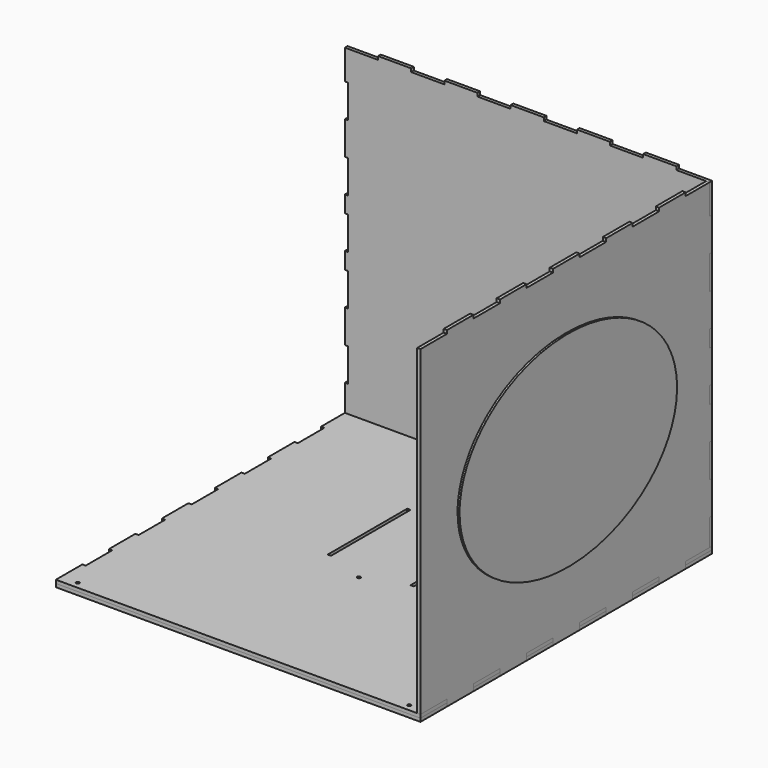
from build123d import *

# Parameters (mm, degrees)
F0_R     = 2.5
F0_W     = 5
F0_H     = 150
F1_DEPTH = 5
F3_DEPTH = 5
F5_DEPTH = 5
F6_DEPTH = 5
F7_DEPTH = 3
F8_DEPTH = 3


with BuildPart() as f1:
    # F0 (on Top) → F1 (new body)
    with BuildSketch(Plane.XY):
        Polygon((-275, -275), (275, -275), (275, -225), (270, -225), (270, -175), (275, -175), (275, -125), (270, -125), (270, -75), (275, -75), (275, -25), (270, -25), (270, 25), (275, 25), (275, 75), (270, 75), (270, 125), (275, 125), (275, 175), (270, 175), (270, 225), (275, 225), (275, 275), (225, 275), (225, 270), (175, 270), (175, 275), (125, 275), (125, 270), (75, 270), (75, 275), (25, 275), (25, 270), (-25, 270), (-25, 275), (-75, 275), (-75, 270), (-125, 270), (-125, 275), (-175, 275), (-175, 270), (-225, 270), (-225, 275), (-275, 275), (-275, 225), (-270, 225), (-270, 175), (-275, 175), (-275, 125), (-270, 125), (-270, 75), (-275, 75), (-275, 25), (-270, 25), (-270, -25), (-275, -25), (-275, -75), (-270, -75), (-270, -125), (-275, -125), (-275, -175), (-270, -175), (-270, -225), (-275, -225), align=None)
        with Locations((-250, -265)):
            Circle(F0_R, mode=Mode.SUBTRACT)
        with Locations((250, -265)):
            Circle(F0_R, mode=Mode.SUBTRACT)
        with Locations((0, -47.255307)):
            Circle(F0_R, mode=Mode.SUBTRACT)
        with Locations((-62.5, 50)):
            Rectangle(F0_W, F0_H, mode=Mode.SUBTRACT)
        with Locations((62.5, 50)):
            Rectangle(F0_W, F0_H, mode=Mode.SUBTRACT)
        with Locations((0, -47.255307)):
            Circle(F0_R)
        with Locations((-62.5, 50)):
            Rectangle(F0_W, F0_H)
        with Locations((62.5, 50)):
            Rectangle(F0_W, F0_H)
    extrude(amount=-F1_DEPTH)


with BuildPart() as f3:
    # F2 (on face) → F3 (new body)
    with BuildSketch(Plane.YZ.offset(275)):
        Polygon((-275, 245), (-275, 0), (-225, 0), (-225, -5), (-175, -5), (-175, 0), (-125, 0), (-125, -5), (-75, -5), (-75, 0), (-25, 0), (-25, -5), (25, -5), (25, 0), (75, 0), (75, -5), (125, -5), (125, 0), (175, 0), (175, -5), (225, -5), (225, 0), (270, 0), (270, 45), (275, 45), (275, 95), (270, 95), (270, 145), (275, 145), (275, 195), (270, 195), (270, 220), (275, 220), (275, 245), (275, 270), (270, 270), (270, 295), (275, 295), (275, 345), (270, 345), (270, 395), (275, 395), (275, 445), (270, 445), (270, 490), (225, 490), (225, 495), (175, 495), (175, 490), (125, 490), (125, 495), (75, 495), (75, 490), (25, 490), (25, 495), (-25, 495), (-25, 490), (-75, 490), (-75, 495), (-125, 495), (-125, 490), (-175, 490), (-175, 495), (-225, 495), (-225, 490), (-275, 490), align=None)
        with BuildLine():
            add(Edge.make_bspline(
                [(-205, 245), (-205, -23.467875), (102.5, 110.766062), (410, 245), (102.5, 379.233938), (-205, 513.467875), (-205, 245)],
                knots=[0, 0, 0, 2.094395, 2.094395, 4.18879, 4.18879, 6.283185, 6.283185, 6.283185], degree=2, weights=[1, 0.5, 1, 0.5, 1, 0.5, 1]))
        make_face(mode=Mode.SUBTRACT)
        with BuildLine():
            add(Edge.make_bspline(
                [(-205, 245), (-205, -23.467875), (102.5, 110.766062), (410, 245), (102.5, 379.233938), (-205, 513.467875), (-205, 245)],
                knots=[0, 0, 0, 2.094395, 2.094395, 4.18879, 4.18879, 6.283185, 6.283185, 6.283185], degree=2, weights=[1, 0.5, 1, 0.5, 1, 0.5, 1]))
        make_face()
        with BuildLine():
            add(Edge.make_bspline(
                [(200, 245), (200, 504.807621), (-100, 374.903811), (-400, 245), (-100, 115.096189), (200, -14.807621), (200, 245)],
                knots=[0, 0, 0, 2.094395, 2.094395, 4.18879, 4.18879, 6.283185, 6.283185, 6.283185], degree=2, weights=[1, 0.5, 1, 0.5, 1, 0.5, 1]))
        make_face(mode=Mode.SUBTRACT)
    extrude(amount=-F3_DEPTH)

    # F2 (on face) → F7 (cut)
    with BuildSketch(Plane.YZ.offset(275)):
        with BuildLine():
            add(Edge.make_bspline(
                [(-205, 245), (-205, -23.467875), (102.5, 110.766062), (410, 245), (102.5, 379.233938), (-205, 513.467875), (-205, 245)],
                knots=[0, 0, 0, 2.094395, 2.094395, 4.18879, 4.18879, 6.283185, 6.283185, 6.283185], degree=2, weights=[1, 0.5, 1, 0.5, 1, 0.5, 1]))
        make_face()
        with BuildLine():
            add(Edge.make_bspline(
                [(200, 245), (200, 504.807621), (-100, 374.903811), (-400, 245), (-100, 115.096189), (200, -14.807621), (200, 245)],
                knots=[0, 0, 0, 2.094395, 2.094395, 4.18879, 4.18879, 6.283185, 6.283185, 6.283185], degree=2, weights=[1, 0.5, 1, 0.5, 1, 0.5, 1]))
        make_face(mode=Mode.SUBTRACT)
    extrude(amount=-F7_DEPTH, mode=Mode.SUBTRACT)


with BuildPart() as f5:
    # F4 (on face) → F5 (new body)
    with BuildSketch(Plane(origin=(0, 275, 0), x_dir=(-1, 0, 0), z_dir=(0, 1, 0))):
        Polygon((-225, 0), (-225, -5), (-175, -5), (-175, 0), (-125, 0), (-125, -5), (-75, -5), (-75, 0), (-25, 0), (-25, -5), (25, -5), (25, 0), (75, 0), (75, -5), (125, -5), (125, 0), (175, 0), (175, -5), (225, -5), (225, 0), (275, 0), (275, 45), (270, 45), (270, 95), (275, 95), (275, 145), (270, 145), (270, 195), (275, 195), (275, 220), (270, 220), (270, 245), (270, 270), (275, 270), (275, 295), (270, 295), (270, 345), (275, 345), (275, 395), (270, 395), (270, 445), (275, 445), (275, 490), (225, 490), (225, 495), (175, 495), (175, 490), (125, 490), (125, 495), (75, 495), (75, 490), (25, 490), (25, 495), (-25, 495), (-25, 490), (-75, 490), (-75, 495), (-125, 495), (-125, 490), (-175, 490), (-175, 495), (-225, 495), (-225, 490), (-275, 490), (-275, 445), (-270, 445), (-270, 395), (-275, 395), (-275, 345), (-270, 345), (-270, 295), (-275, 295), (-275, 270), (-270, 270), (-270, 245), (-270, 220), (-275, 220), (-275, 195), (-270, 195), (-270, 145), (-275, 145), (-275, 95), (-270, 95), (-270, 45), (-275, 45), (-275, 0), align=None)
    extrude(amount=-F5_DEPTH)


with BuildPart() as f6:
    # F0 (on Top) → F6 (new body)
    with BuildSketch(Plane.XY):
        Polygon((-275, -275), (275, -275), (275, -225), (270, -225), (270, -175), (275, -175), (275, -125), (270, -125), (270, -75), (275, -75), (275, -25), (270, -25), (270, 25), (275, 25), (275, 75), (270, 75), (270, 125), (275, 125), (275, 175), (270, 175), (270, 225), (275, 225), (275, 275), (225, 275), (225, 270), (175, 270), (175, 275), (125, 275), (125, 270), (75, 270), (75, 275), (25, 275), (25, 270), (-25, 270), (-25, 275), (-75, 275), (-75, 270), (-125, 270), (-125, 275), (-175, 275), (-175, 270), (-225, 270), (-225, 275), (-275, 275), (-275, 225), (-270, 225), (-270, 175), (-275, 175), (-275, 125), (-270, 125), (-270, 75), (-275, 75), (-275, 25), (-270, 25), (-270, -25), (-275, -25), (-275, -75), (-270, -75), (-270, -125), (-275, -125), (-275, -175), (-270, -175), (-270, -225), (-275, -225), align=None)
        with Locations((-250, -265)):
            Circle(F0_R, mode=Mode.SUBTRACT)
        with Locations((250, -265)):
            Circle(F0_R, mode=Mode.SUBTRACT)
        with Locations((0, -47.255307)):
            Circle(F0_R, mode=Mode.SUBTRACT)
        with Locations((-62.5, 50)):
            Rectangle(F0_W, F0_H, mode=Mode.SUBTRACT)
        with Locations((62.5, 50)):
            Rectangle(F0_W, F0_H, mode=Mode.SUBTRACT)
    extrude(amount=F6_DEPTH)


with BuildPart() as f8:
    # F2 (on face) → F8 (new body)
    with BuildSketch(Plane.YZ.offset(275)):
        with BuildLine():
            add(Edge.make_bspline(
                [(-205, 245), (-205, -23.467875), (102.5, 110.766062), (410, 245), (102.5, 379.233938), (-205, 513.467875), (-205, 245)],
                knots=[0, 0, 0, 2.094395, 2.094395, 4.18879, 4.18879, 6.283185, 6.283185, 6.283185], degree=2, weights=[1, 0.5, 1, 0.5, 1, 0.5, 1]))
        make_face()
        with BuildLine():
            add(Edge.make_bspline(
                [(200, 245), (200, 504.807621), (-100, 374.903811), (-400, 245), (-100, 115.096189), (200, -14.807621), (200, 245)],
                knots=[0, 0, 0, 2.094395, 2.094395, 4.18879, 4.18879, 6.283185, 6.283185, 6.283185], degree=2, weights=[1, 0.5, 1, 0.5, 1, 0.5, 1]))
        make_face(mode=Mode.SUBTRACT)
        with BuildLine():
            add(Edge.make_bspline(
                [(200, 245), (200, 504.807621), (-100, 374.903811), (-400, 245), (-100, 115.096189), (200, -14.807621), (200, 245)],
                knots=[0, 0, 0, 2.094395, 2.094395, 4.18879, 4.18879, 6.283185, 6.283185, 6.283185], degree=2, weights=[1, 0.5, 1, 0.5, 1, 0.5, 1]))
        make_face()
    extrude(amount=F8_DEPTH)


solid = Compound([f1.part, f3.part, f5.part, f6.part, f8.part])
